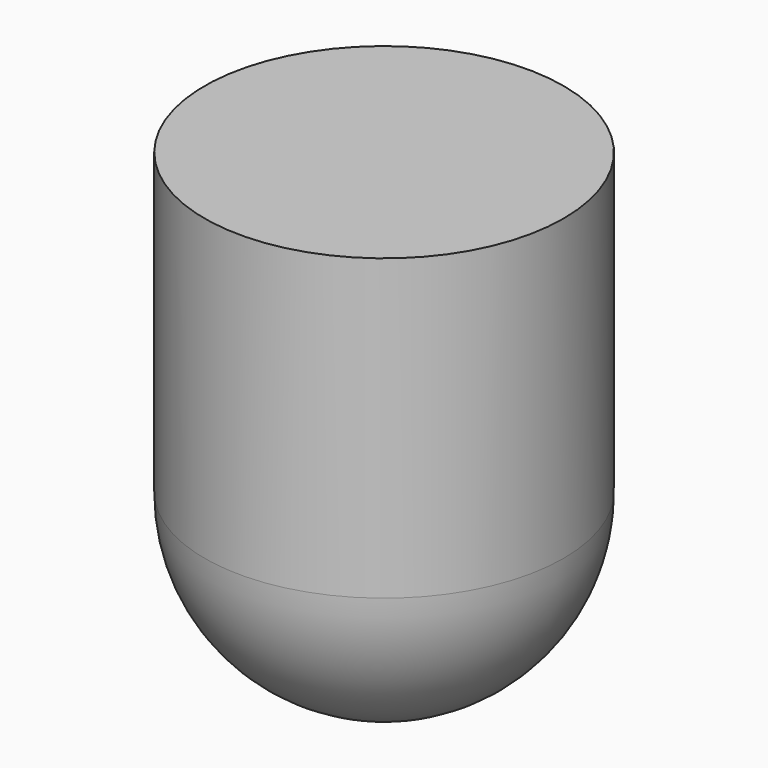
from build123d import *

# Parameters (mm, degrees)
CYLINDER001_R     = 1.5
CYLINDER001_DEPTH = 2.5


with BuildPart() as cilindro001:
    # Cylinder001 → Cylinder001 (new body)
    with BuildSketch(Plane.XY):
        Circle(CYLINDER001_R)
    extrude(amount=CYLINDER001_DEPTH)


with BuildPart() as led_ir:
    # Sphere → Sphere (revolve)
    with BuildSketch(Plane.XZ):
        with BuildLine():
            ThreePointArc((0, -1.5), (1.5, 0), (0, 1.5))
            Line((0, 1.5), (0, -1.5))
        make_face()
    revolve(axis=Axis((0, 0, 0), (0, 0, 1)))

    # Fusion002: union Cilindro001
    add(cilindro001.part)


with BuildPart() as led_ir_1:
    # Fusion002 placement: moved
    add(led_ir.part.moved(Location((8.1, 4, -4))))


solid = led_ir_1.part
